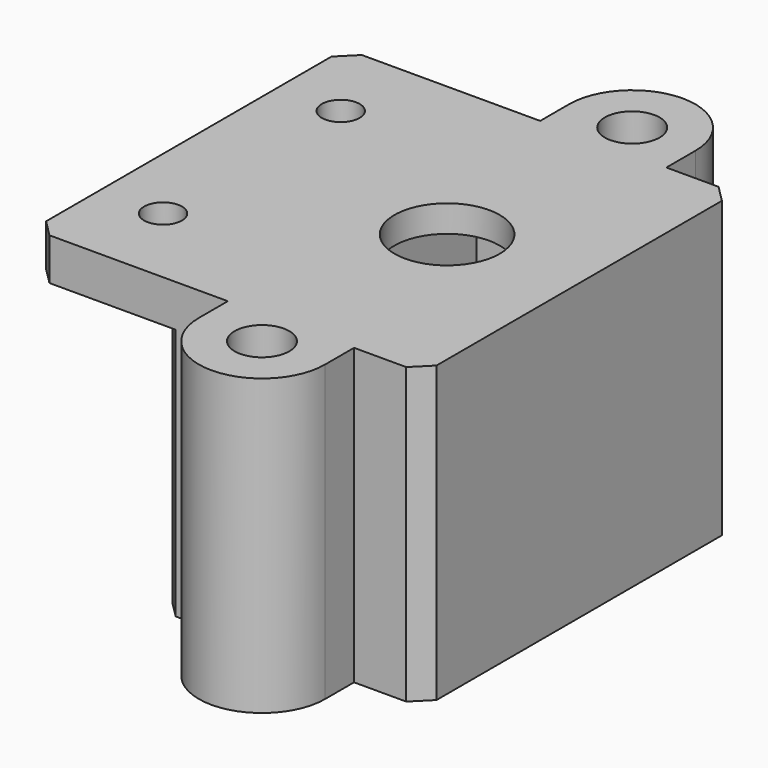
from build123d import *

# Parameters (mm, degrees)
F0_W     = 25
F0_H     = 40
F0_R     = 6.25
F1_DEPTH = 3.2
F2_R     = 3.25
F2_W     = 25
F2_H     = 40
F3_DEPTH = 35
F4_W     = 15
F4_H     = 46.4
F4_R     = 2.25
F5_DEPTH = 5
F6_SIZE  = 2
F7_R     = 3.25
F7_R_2   = 2.25
F8_DEPTH = 3.2


with BuildPart() as f1:
    # F0 (on Top) → F1 (new body)
    with BuildSketch(Plane.XY):
        Rectangle(F0_W, F0_H)
        Circle(F0_R, mode=Mode.SUBTRACT)
    extrude(amount=F1_DEPTH)

    # F2 (on face) → F3 (join)
    with BuildSketch(Plane.XY.offset(3.2)):
        with BuildLine():
            Line((15.7, -23.2), (15.7, 23.2))
            Line((15.7, 23.2), (7.5, 23.2))
            Line((7.5, 23.2), (7.5, 27.5))
            ThreePointArc((7.5, 27.5), (0, 35), (-7.5, 27.5))
            Line((-7.5, 27.5), (-7.5, 23.2))
            Line((-7.5, 23.2), (-15.7, 23.2))
            Line((-15.7, 23.2), (-15.7, -23.2))
            Line((-15.7, -23.2), (-7.5, -23.2))
            Line((-7.5, -23.2), (-7.5, -27.5))
            ThreePointArc((-7.5, -27.5), (0, -35), (7.5, -27.5))
            Line((7.5, -27.5), (7.5, -23.2))
            Line((7.5, -23.2), (15.7, -23.2))
        make_face()
        with Locations((0, -27.5)):
            Circle(F2_R, mode=Mode.SUBTRACT)
        Rectangle(F2_W, F2_H, mode=Mode.SUBTRACT)
        with BuildLine():
            ThreePointArc((0, 24.25), (-2.2980970389, 29.7980970389), (3.25, 27.5))
            ThreePointArc((3.25, 27.5), (2.2980970389, 25.2019029611), (0, 24.25))
        make_face(mode=Mode.SUBTRACT)
    extrude(amount=-F3_DEPTH)

    # F4 (on face) → F5 (join)
    with BuildSketch(Plane.XY.offset(3.2)):
        with Locations((-23.2, 0)):
            Rectangle(F4_W, F4_H)
        with Locations((-23.2, -13.2)):
            Circle(F4_R, mode=Mode.SUBTRACT)
        with Locations((-23.2, 13.2)):
            Circle(F4_R, mode=Mode.SUBTRACT)
    extrude(amount=-F5_DEPTH)

    # F6
    f6_edges = [f1.edges().sort_by_distance(p)[0] for p in [
        (15.7, 23.2, -14.3),
        (-15.7, 23.2, -16.8),
        (-15.7, -23.2, -16.8),
        (15.7, -23.2, -14.3),
        (-30.7, 23.2, 0.7),
        (-30.7, -23.2, 0.7),
    ]]
    chamfer(f6_edges, length=F6_SIZE)

    # F7 (on face) → F8 (join)
    with BuildSketch(Plane(origin=(0, 0, -31.8), x_dir=(1, 0, 0), z_dir=(0, 0, -1))):
        with Locations((0, -27.5)):
            Circle(F7_R)
        with Locations((0, -27.5)):
            Circle(F7_R_2, mode=Mode.SUBTRACT)
        with Locations((0, 27.5)):
            Circle(F7_R)
        with Locations((0, 27.5)):
            Circle(F7_R_2, mode=Mode.SUBTRACT)
    extrude(amount=-F8_DEPTH)


solid = f1.part
